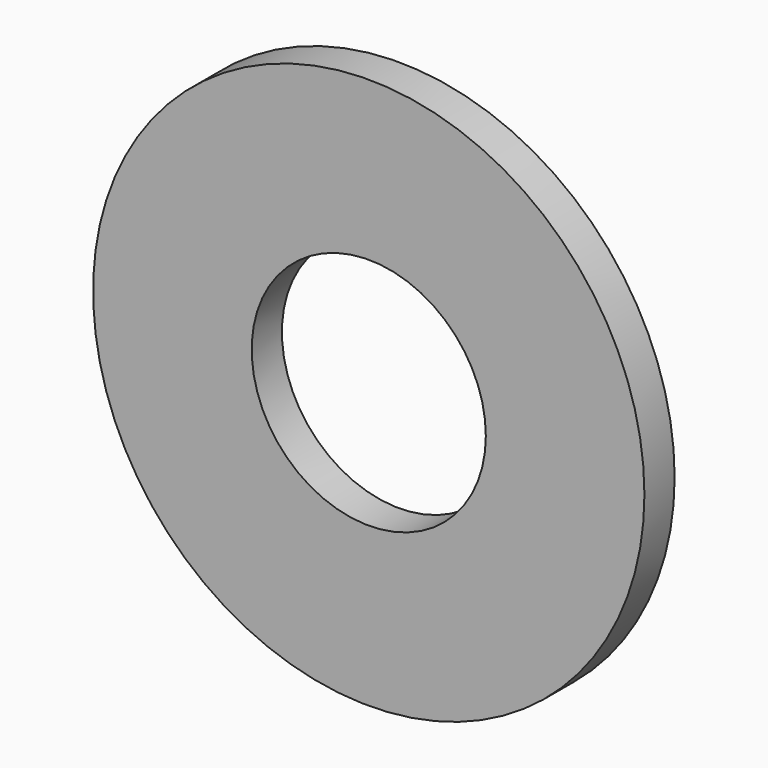
from build123d import *

# Parameters (mm, degrees)
F0_R     = 9.271
F2_DEPTH = 1.27
F1_R     = 3.937
F3_DEPTH = 12.7


with BuildPart() as f2:
    # F0 (on Front) → F2 (new body)
    with BuildSketch(Plane.XZ):
        Circle(F0_R)
    extrude(amount=F2_DEPTH)

    # F1 (on Front) → F3 (cut, symmetric)
    with BuildSketch(Plane.XZ):
        Circle(F1_R)
    extrude(amount=F3_DEPTH, both=True, mode=Mode.SUBTRACT)


solid = f2.part
